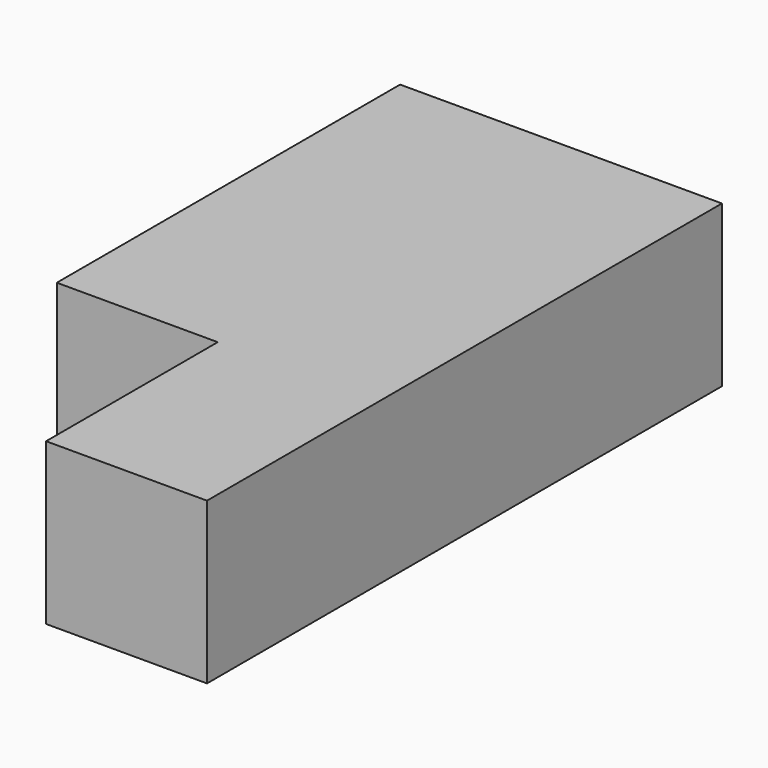
from build123d import *

# Parameters (mm, degrees)
F0_W     = 60
F0_H     = 15
F1_DEPTH = 30
F2_W     = 15
F2_H     = 20
F3_DEPTH = 25


with BuildPart() as f1:
    # F0 (on Right) → F1 (new body)
    with BuildSketch(Plane.YZ):
        with Locations((30, 7.5)):
            Rectangle(F0_W, F0_H)
    extrude(amount=F1_DEPTH)

    # F2 (on face) → F3 (cut)
    with BuildSketch(Plane.XY.offset(15)):
        with Locations((7.5, 10)):
            Rectangle(F2_W, F2_H)
    extrude(amount=-F3_DEPTH, mode=Mode.SUBTRACT)


solid = f1.part
